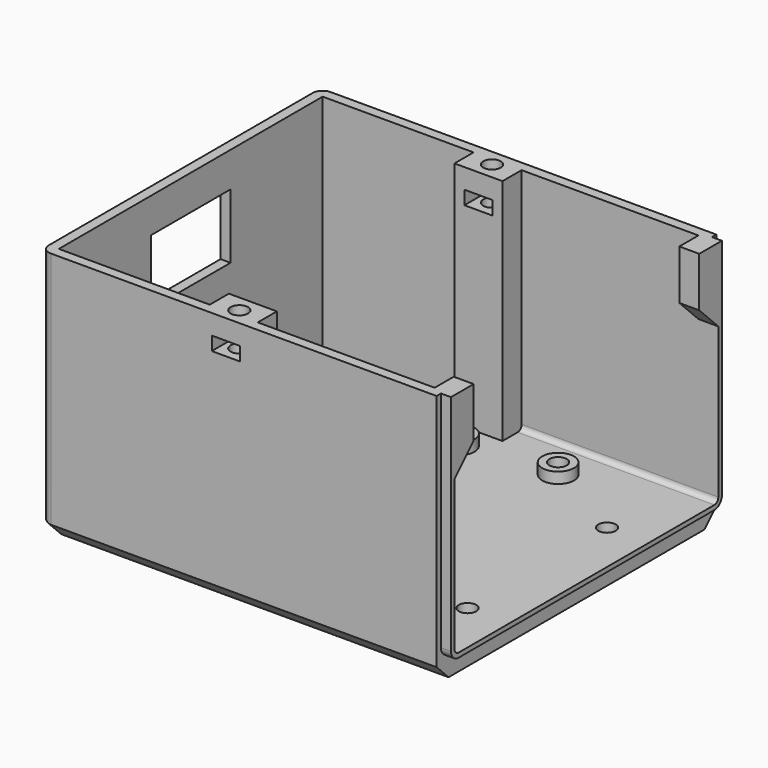
from build123d import *

# Parameters (mm, degrees)
PAD044_DEPTH         = 79.56
PAD045_DEPTH         = 2
SKETCH132_R          = 5
SKETCH132_W          = 20
SKETCH132_H          = 13
PAD046_DEPTH         = 2
FILLET011_R          = 2
SKETCH133_W          = 9.65
SKETCH133_H          = 4.8
PAD047_DEPTH         = 46
SKETCH134_R          = 1.75
POCKET055_DEPTH      = 46.001
SKETCH135_R          = 1.75
POCKET056_DEPTH      = 5.001
SKETCH136_R          = 3
POCKET057_DEPTH      = 2.951
SKETCH137_R          = 3.2
SKETCH137_R_2        = 1.75
PAD048_DEPTH         = 2.2
SKETCH138_W          = 5.65
SKETCH138_H          = 2.75
POCKET058_DEPTH      = 35.151
POCKET058_DEPTH_BACK = 35.151
PAD049_DEPTH         = 4


with BuildPart() as part:
    # Sketch130 → Pad044 (new body)
    with BuildSketch(Plane.YZ.offset(38.302)):
        with BuildLine():
            ThreePointArc((-33.15, 1), (-32.857107, 0.292893), (-32.15, 0))
            Line((32.15, 0), (-32.15, 0))
            ThreePointArc((32.15, 0), (32.857107, 0.292893), (33.15, 1))
            Line((33.15, 46), (33.15, 1))
            Line((35.15, 46), (33.15, 46))
            Line((35.15, -2), (35.15, 46))
            Line((32.15, -5), (35.15, -2))
            Line((-32.15, -5), (32.15, -5))
            Line((-35.15, -2), (-32.15, -5))
            Line((-35.15, 46), (-35.15, -2))
            Line((-33.15, 46), (-35.15, 46))
            Line((-33.15, 1), (-33.15, 46))
        make_face()
    extrude(amount=-PAD044_DEPTH)

    # Sketch131 → Pad045 (join)
    with BuildSketch(Plane.YZ.offset(38.302)):
        with BuildLine():
            ThreePointArc((-34.05, 1), (-33.493503, -0.343503), (-32.15, -0.9))
            Line((-32.15, -0.9), (32.15, -0.9))
            ThreePointArc((32.15, -0.9), (33.493503, -0.343503), (34.05, 1))
            Line((34.05, 1), (34.05, 46))
            Line((34.05, 46), (33.15, 46))
            Line((33.15, 46), (33.15, 1))
            ThreePointArc((32.15, 0), (32.857107, 0.292893), (33.15, 1))
            Line((32.15, 0), (-32.15, 0))
            ThreePointArc((-33.15, 1), (-32.857107, 0.292893), (-32.15, 0))
            Line((-33.15, 46), (-33.15, 1))
            Line((-34.05, 46), (-33.15, 46))
            Line((-34.05, 46), (-34.05, 1))
        make_face()
    extrude(amount=PAD045_DEPTH)

    # Sketch132 → Pad046 (join)
    with BuildSketch(Plane.YZ.offset(-41.258)):
        with BuildLine():
            ThreePointArc((-33.15, 1), (-32.857107, 0.292893), (-32.15, 0))
            Line((-32.15, 0), (32.15, 0))
            ThreePointArc((32.15, 0), (32.857107, 0.292893), (33.15, 1))
            Line((33.15, 1), (33.15, 46))
            Line((33.15, 46), (-33.15, 46))
            Line((-33.15, 46), (-33.15, 1))
        make_face()
        with Locations((0, 12)):
            Circle(SKETCH132_R, mode=Mode.SUBTRACT)
        with Locations((0, 32.5)):
            Rectangle(SKETCH132_W, SKETCH132_H, mode=Mode.SUBTRACT)
    extrude(amount=PAD046_DEPTH)

    # Fillet011
    fillet011_edges = [part.edges().sort_by_distance(p)[0] for p in [
        (-41.258, 35.15, 22),
        (-41.258, 33.65, -3.5),
        (-41.258, 0, -5),
        (-41.258, -33.65, -3.5),
        (-41.258, -35.15, 22),
    ]]
    fillet(fillet011_edges, radius=FILLET011_R)

    # Sketch133 → Pad047 (join)
    with BuildSketch(Plane.XY):
        with Locations((-4.083, 30.75)):
            Rectangle(SKETCH133_W, SKETCH133_H)
        with Locations((-4.083, -30.75)):
            Rectangle(SKETCH133_W, SKETCH133_H)
    extrude(amount=PAD047_DEPTH)

    # Sketch134 → Pocket055 (cut, through all)
    with BuildSketch(Plane.XY):
        with Locations((-4.083, 31.75)):
            Circle(SKETCH134_R)
        with Locations((-4.083, -31.75)):
            Circle(SKETCH134_R)
    extrude(amount=POCKET055_DEPTH, mode=Mode.SUBTRACT)

    # Sketch135 → Pocket056 (cut, through all)
    with BuildSketch(Plane.XY):
        with Locations((-20.908, 22.75)):
            Circle(SKETCH135_R)
        with Locations((-3.608, 22.75)):
            Circle(SKETCH135_R)
        with Locations((14.696, 24.888)):
            Circle(SKETCH135_R)
        with Locations((31.952, 15.621)):
            Circle(SKETCH135_R)
        with Locations((31.952, -19.431)):
            Circle(SKETCH135_R)
        with Locations((23.841, -28.448)):
            Circle(SKETCH135_R)
        with Locations((5.551, -28.448)):
            Circle(SKETCH135_R)
        with Locations((-3.608, -22.75)):
            Circle(SKETCH135_R)
        with Locations((-20.908, -22.75)):
            Circle(SKETCH135_R)
    extrude(amount=-POCKET056_DEPTH, mode=Mode.SUBTRACT)

    # Sketch136 → Pocket057 (cut, through all)
    with BuildSketch(Plane.XY.offset(-2.05)):
        with Locations((-20.908, 22.75)):
            Circle(SKETCH136_R)
        with Locations((-3.608, 22.75)):
            Circle(SKETCH136_R)
        with Locations((14.696, 24.888)):
            Circle(SKETCH136_R)
        with Locations((31.952, 15.621)):
            Circle(SKETCH136_R)
        with Locations((31.952, -19.431)):
            Circle(SKETCH136_R)
        with Locations((23.841, -28.448)):
            Circle(SKETCH136_R)
        with Locations((5.551, -28.448)):
            Circle(SKETCH136_R)
        with Locations((-3.608, -22.75)):
            Circle(SKETCH136_R)
        with Locations((-20.908, -22.75)):
            Circle(SKETCH136_R)
    extrude(amount=-POCKET057_DEPTH, mode=Mode.SUBTRACT)

    # Sketch137 → Pad048 (join)
    with BuildSketch(Plane.XY):
        with Locations((-20.908, 22.75)):
            Circle(SKETCH137_R)
        with Locations((-20.908, 22.75)):
            Circle(SKETCH137_R_2, mode=Mode.SUBTRACT)
        with Locations((-3.608, 22.75)):
            Circle(SKETCH137_R)
        with Locations((-3.608, 22.75)):
            Circle(SKETCH137_R_2, mode=Mode.SUBTRACT)
        with Locations((14.696, 24.888)):
            Circle(SKETCH137_R)
        with Locations((14.696, 24.888)):
            Circle(SKETCH137_R_2, mode=Mode.SUBTRACT)
        with Locations((23.841, -28.448)):
            Circle(SKETCH137_R)
        with Locations((23.841, -28.448)):
            Circle(SKETCH137_R_2, mode=Mode.SUBTRACT)
        with Locations((5.551, -28.448)):
            Circle(SKETCH137_R)
        with Locations((5.551, -28.448)):
            Circle(SKETCH137_R_2, mode=Mode.SUBTRACT)
        with Locations((-3.608, -22.75)):
            Circle(SKETCH137_R)
        with Locations((-3.608, -22.75)):
            Circle(SKETCH137_R_2, mode=Mode.SUBTRACT)
        with Locations((-20.908, -22.75)):
            Circle(SKETCH137_R)
        with Locations((-20.908, -22.75)):
            Circle(SKETCH137_R_2, mode=Mode.SUBTRACT)
    extrude(amount=PAD048_DEPTH)

    # Sketch138 → Pocket058 (cut, two sides)
    with BuildSketch(Plane.XZ) as pocket058_sk:
        with Locations((-4.083, 40.625)):
            Rectangle(SKETCH138_W, SKETCH138_H)
    extrude(amount=-POCKET058_DEPTH, mode=Mode.SUBTRACT)
    extrude(pocket058_sk.sketch, amount=POCKET058_DEPTH_BACK, mode=Mode.SUBTRACT)

    # Sketch139 → Pad049 (join)
    with BuildSketch(Plane.YZ.offset(40.302)):
        Polygon((-33.15, 46), (-28.35, 46), (-28.35, 36), (-33.15, 31.2), align=None)
        Polygon((33.15, 46), (28.35, 46), (28.35, 36), (33.15, 31.2), align=None)
    extrude(amount=-PAD049_DEPTH)


solid = part.part
